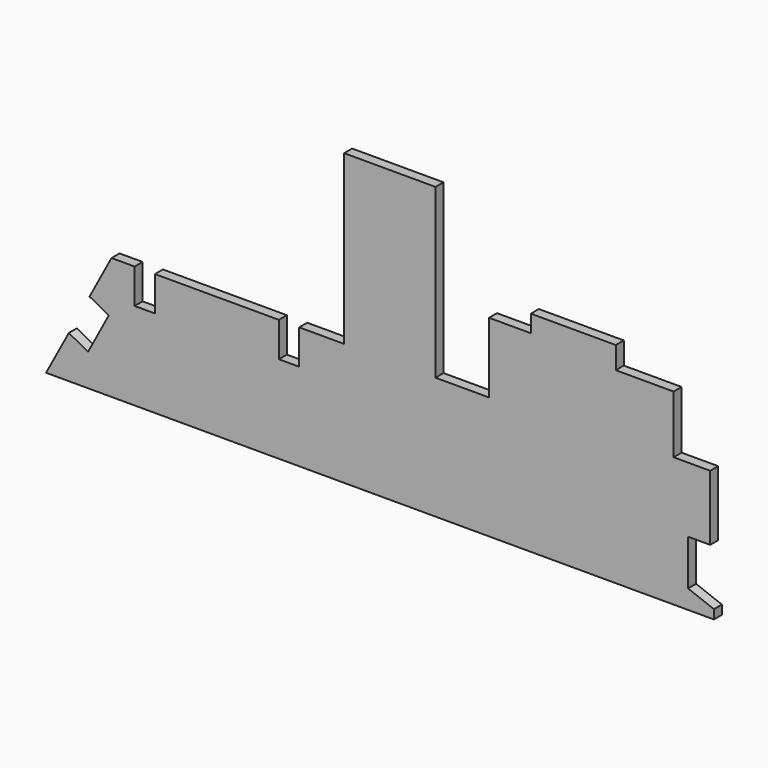
from build123d import *

# Parameters (mm, degrees)
F1_DEPTH = 1.5


with BuildPart() as f1:
    # F0 (on Front) → F1 (new body, symmetric)
    with BuildSketch(Plane.XZ):
        Polygon((-86.870268, -18.356878), (-93.673409, -31.076311), (106.326591, -31.076311), (106.326591, -28.354977), (98.586615, -25.406411), (98.586615, -11.769292), (105.220888, -11.769292), (105.220888, 7.764959), (94.258001, 7.764959), (94.258001, 25.087785), (76.93517, 25.087785), (76.93517, 31.722059), (51.503786, 31.722059), (51.503786, 26.562068), (38.972379, 26.562068), (38.972379, 5.553535), (36.760957, 5.553535), (22.948155, 5.553535), (22.948155, 55.852977), (-4.416829, 55.852977), (-4.416829, 5.553535), (-17.875415, 5.553535), (-17.875415, -4.839057), (-23.963247, -4.839057), (-23.963247, 5.553535), (-61.075667, 5.553535), (-61.075667, -4.839057), (-67.1635, -4.839057), (-67.1635, 5.553535), (-74.081498, 5.553535), (-80.662448, -6.750482), (-74.892075, -9.836834), (-81.099895, -21.443231), align=None)
    extrude(amount=F1_DEPTH, both=True)


solid = f1.part
